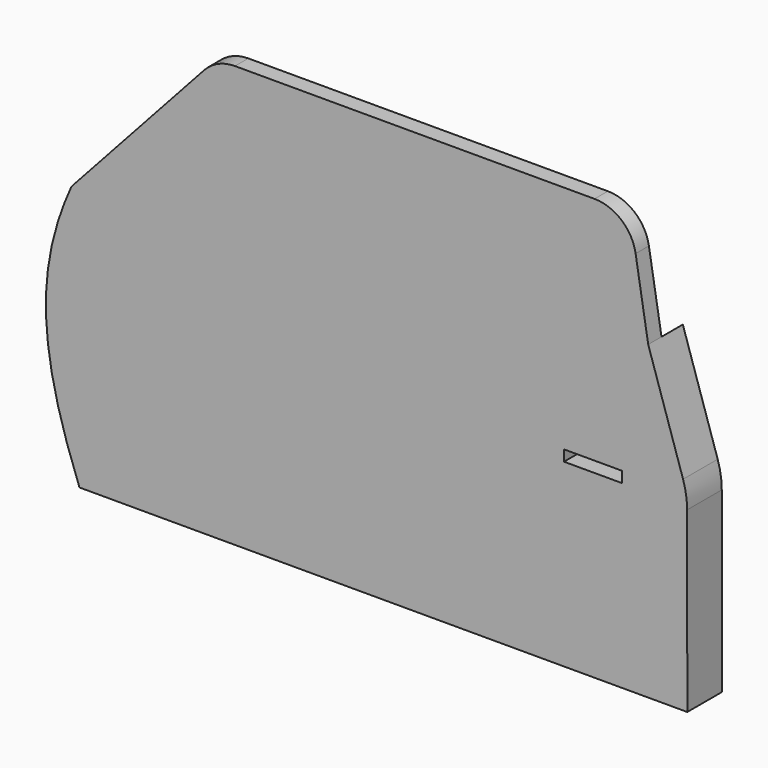
from build123d import *

# Parameters (mm, degrees)
F0_W     = 8.849032
F0_H     = 1.659194
F1_DEPTH = 6.604
F2_DEPTH = 2.54


with BuildPart() as f1:
    # F0 (on Front) → F1 (new body)
    with BuildSketch(Plane.XZ):
        with BuildLine():
            add(Edge.make_bspline(
                [(-66.073255, -37.148017), (-72.320135, -20.923742), (-73.008267, -9.742427), (-67.282905, 2.894996)],
                knots=[0, 0, 0, 0, 40.06128, 40.06128, 40.06128, 40.06128], degree=3))
            Line((-66.073255, -37.148017), (26.679299, -37.148017))
            Line((26.679299, -37.148017), (26.654679, -9.997438))
            ThreePointArc((26.654679, -9.997438), (26.497353, -8.016108), (26.032825, -6.083588))
            Line((26.032825, -6.083588), (20.713379, 10.284061))
            ThreePointArc((20.713379, 10.284061), (19.292549, 5.138633), (14.448968, 2.894996))
            Line((14.448968, 2.894996), (-67.282905, 2.894996))
        make_face()
        with Locations((12.289253, -8.810178)):
            Rectangle(F0_W, F0_H, mode=Mode.SUBTRACT)
    extrude(amount=-F1_DEPTH)

    # F0 (on Front) → F2 (join)
    with BuildSketch(Plane.XZ):
        with BuildLine():
            add(Edge.make_bspline(
                [(-66.073255, -37.148017), (-72.320135, -20.923742), (-73.008267, -9.742427), (-67.282905, 2.894996)],
                knots=[0, 0, 0, 0, 40.06128, 40.06128, 40.06128, 40.06128], degree=3))
            Line((-66.073255, -37.148017), (26.679299, -37.148017))
            Line((26.679299, -37.148017), (26.654679, -9.997438))
            ThreePointArc((26.654679, -9.997438), (26.497353, -8.016108), (26.032825, -6.083588))
            Line((26.032825, -6.083588), (20.713379, 10.284061))
            ThreePointArc((20.713379, 10.284061), (19.292549, 5.138633), (14.448968, 2.894996))
            Line((14.448968, 2.894996), (-67.282905, 2.894996))
        make_face()
        with Locations((12.289253, -8.810178)):
            Rectangle(F0_W, F0_H, mode=Mode.SUBTRACT)
        with BuildLine():
            Line((-47.033889, 25.107424), (-67.282905, 2.894996))
            Line((-67.282905, 2.894996), (14.448968, 2.894996))
            ThreePointArc((14.448968, 2.894996), (19.292549, 5.138633), (20.713379, 10.284061))
            Line((20.713379, 10.284061), (18.791883, 21.868555))
            ThreePointArc((18.791883, 21.868555), (16.633835, 25.673071), (12.527472, 27.17949))
            Line((12.527472, 27.17949), (-42.341152, 27.17949))
            ThreePointArc((-42.341152, 27.17949), (-44.906071, 26.638422), (-47.033889, 25.107424))
        make_face()
    extrude(amount=-F2_DEPTH)


solid = f1.part
